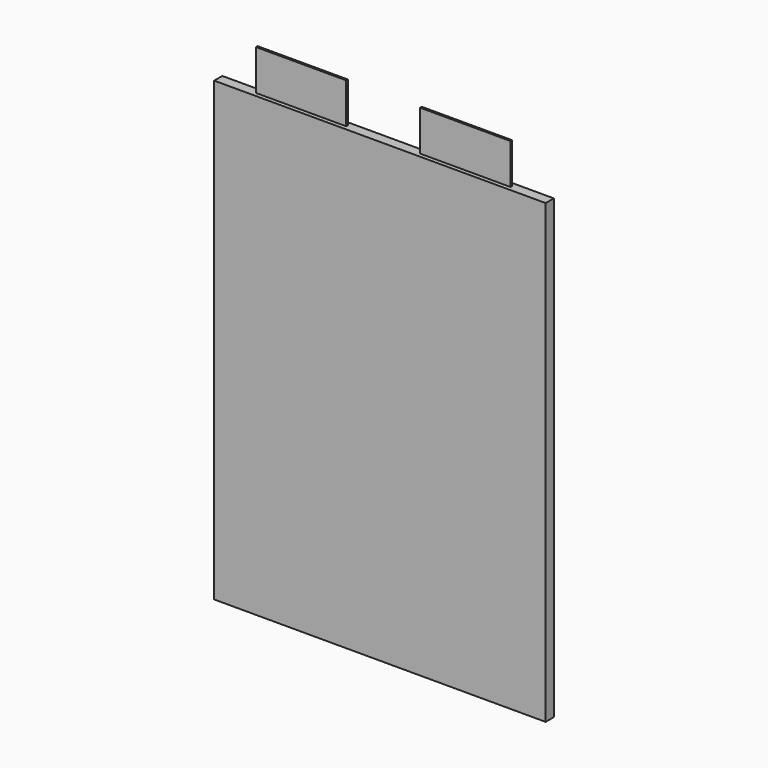
from build123d import *

# Parameters (mm, degrees)
F0_W     = 164
F0_H     = 226
F1_DEPTH = 2.525
F2_W     = 44.66758
F2_H     = 20
F3_DEPTH = 0.5


with BuildPart() as f1:
    # F0 (on Front) → F1 (new body, symmetric)
    with BuildSketch(Plane.XZ):
        Rectangle(F0_W, F0_H)
    extrude(amount=F1_DEPTH, both=True)

    # F2 (on face) → F3 (join, symmetric)
    with BuildSketch(Plane.XZ):
        with Locations((-40.66621, 123)):
            Rectangle(F2_W, F2_H)
        with Locations((40.66621, 123)):
            Rectangle(F2_W, F2_H)
    extrude(amount=F3_DEPTH, both=True)


solid = f1.part
